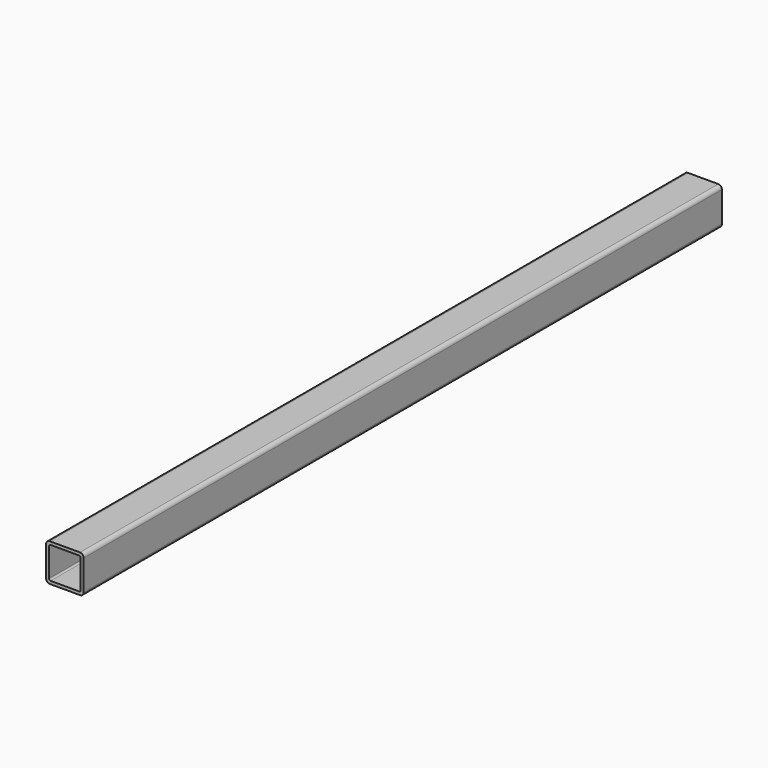
from build123d import *

# Parameters (mm, degrees)
F1_DEPTH = 1060
F2_R     = 2


with BuildPart() as f1:
    # F0 (on Front) → F1 (new body)
    with BuildSketch(Plane.XZ):
        with BuildLine():
            Line((5.301232, 14.000001), (-14.698768, 14.000001))
            ThreePointArc((-14.698768, 14.000001), (-18.234301, 12.535535), (-19.698768, 9.000001))
            Line((-19.698768, 9.000001), (-19.698768, -30.999999))
            ThreePointArc((-19.698768, -30.999999), (-18.234301, -34.535533), (-14.698768, -35.999999))
            Line((-14.698768, -35.999999), (5.301232, -35.999999))
            Line((5.301232, -35.999999), (25.301232, -35.999999))
            ThreePointArc((25.301232, -35.999999), (28.836766, -34.535533), (30.301232, -30.999999))
            Line((30.301232, -30.999999), (30.301232, 9.000001))
            ThreePointArc((30.301232, 9.000001), (28.836766, 12.535535), (25.301232, 14.000001))
            Line((25.301232, 14.000001), (5.301232, 14.000001))
        make_face()
        Polygon((-15.698768, -31.999999), (-15.698768, 10.000001), (5.301232, 10.000001), (26.301232, 10.000001), (26.301232, -31.999999), (5.301232, -31.999999), align=None, mode=Mode.SUBTRACT)
    extrude(amount=F1_DEPTH)

    # F2
    f2_edges = [f1.edges().sort_by_distance(p)[0] for p in [
        (-15.698768, -530, 10.000001),
        (26.301232, -530, 10.000001),
        (26.301232, -530, -31.999999),
        (-15.698768, -530, -31.999999),
    ]]
    fillet(f2_edges, radius=F2_R)


solid = f1.part
